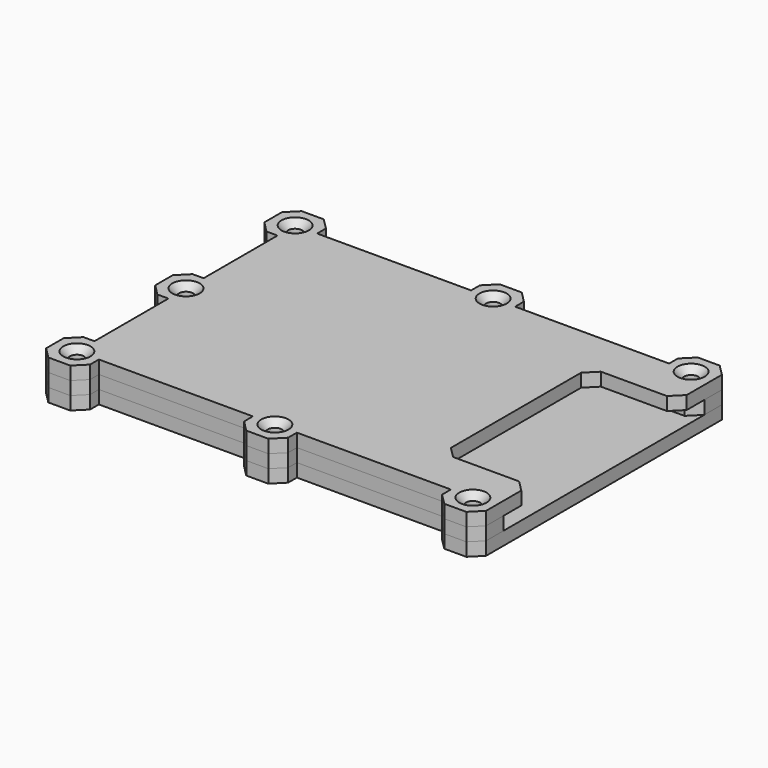
from build123d import *

# Parameters (mm, degrees)
F0_R      = 1.6
F1_DEPTH  = 3
F2_SIZE   = 2.5
F3_R      = 1.6
F4_DEPTH  = 3
F5_R      = 1
F6_DEPTH  = 3
F7_W      = 20
F7_H      = 42
F8_DEPTH  = 4
F9_SIZE   = 2.5
F9_2_SIZE = 2.5
F10_SIZE  = 1.5


with BuildPart() as f1:
    # F0 (on Top) → F1 (new body)
    with BuildSketch(Plane.XY):
        with BuildLine():
            Line((-37, -26), (45, -26))
            Line((45, -26), (45, 26))
            Line((45, 26), (-37, 26))
            ThreePointArc((-37, 26), (-42.6568542495, 23.6568542495), (-45, 18))
            Line((-45, 18), (-45, -18))
            ThreePointArc((-45, -18), (-42.6568542495, -23.6568542495), (-37, -26))
        make_face()
        with BuildLine():
            Line((45, -36), (45, -26))
            Line((45, -26), (-37, -26))
            ThreePointArc((-37, -26), (-42.6568542495, -23.6568542495), (-45, -18))
            Line((-45, -18), (-45, 18))
            ThreePointArc((-45, 18), (-42.6568542495, 23.6568542495), (-37, 26))
            Line((-37, 26), (45, 26))
            Line((45, 26), (45, 36))
            Line((45, 36), (35, 36))
            Line((35, 36), (35, 31))
            Line((35, 31), (0, 31))
            Line((0, 31), (0, 36))
            Line((0, 36), (-10, 36))
            Line((-10, 36), (-10, 31))
            Line((-10, 31), (-45, 31))
            Line((-45, 31), (-45, 36))
            Line((-45, 36), (-55, 36))
            Line((-55, 36), (-55, 26))
            Line((-55, 26), (-50, 26))
            Line((-50, 26), (-50, 5))
            Line((-50, 5), (-55, 5))
            Line((-55, 5), (-55, -5))
            Line((-55, -5), (-50, -5))
            Line((-50, -5), (-50, -26))
            Line((-50, -26), (-55, -26))
            Line((-55, -26), (-55, -36))
            Line((-55, -36), (-45, -36))
            Line((-45, -36), (-45, -31))
            Line((-45, -31), (-10, -31))
            Line((-10, -31), (-10, -36))
            Line((-10, -36), (0, -36))
            Line((0, -36), (0, -31))
            Line((0, -31), (35, -31))
            Line((35, -31), (35, -36))
            Line((35, -36), (45, -36))
        make_face()
        with Locations((-50, -31)):
            Circle(F0_R, mode=Mode.SUBTRACT)
        with Locations((-5, -31)):
            Circle(F0_R, mode=Mode.SUBTRACT)
        with Locations((40, -31)):
            Circle(F0_R, mode=Mode.SUBTRACT)
        with Locations((-50, 0)):
            Circle(F0_R, mode=Mode.SUBTRACT)
        with Locations((-50, 31)):
            Circle(F0_R, mode=Mode.SUBTRACT)
        with Locations((-5, 31)):
            Circle(F0_R, mode=Mode.SUBTRACT)
        with Locations((40, 31)):
            Circle(F0_R, mode=Mode.SUBTRACT)
    extrude(amount=-F1_DEPTH)

    # F2
    f2_edges = [f1.edges().sort_by_distance(p)[0] for p in [
        (45, -36, -1.5),
        (35, -36, -1.5),
        (0, -36, -1.5),
        (-10, -36, -1.5),
        (-45, -36, -1.5),
        (-55, -36, -1.5),
        (-55, -5, -1.5),
        (-55, 26, -1.5),
        (-55, -26, -1.5),
        (-55, 5, -1.5),
        (-55, 36, -1.5),
        (-45, 36, -1.5),
        (-10, 36, -1.5),
        (0, 36, -1.5),
        (35, 36, -1.5),
        (45, 36, -1.5),
    ]]
    chamfer(f2_edges, length=F2_SIZE)

    # F7 (on face) → F8 (cut)
    with BuildSketch(Plane.XY):
        with Locations((55, 0)):
            Rectangle(F7_W, F7_H)
        with Locations((35, 0)):
            Rectangle(F7_W, F7_H)
    extrude(amount=-F8_DEPTH, mode=Mode.SUBTRACT)

    # F9
    f9_edges = [f1.edges().sort_by_distance(p)[0] for p in [
        (25, 21, -1.5),
        (45, 21, -1.5),
        (45, -21, -1.5),
        (25, -21, -1.5),
    ]]
    chamfer(f9_edges, length=F9_SIZE)

    # F10
    f10_edges = [f1.edges().sort_by_distance(p)[0] for p in [
        (38.4, 31, 0),
        (-6.6, 31, 0),
        (-51.6, 31, 0),
        (-51.6, 0, 0),
        (-51.6, -31, 0),
        (-6.6, -31, 0),
        (38.4, -31, 0),
    ]]
    chamfer(f10_edges, length=F10_SIZE)


with BuildPart() as f4:
    # F3 (on face) → F4 (new body)
    with BuildSketch(Plane(origin=(0, 0, -3), x_dir=(1, 0, 0), z_dir=(0, 0, -1))):
        Polygon((37.5, -36), (42.5, -36), (45, -33.5), (45, -26), (-45, -26), (-45, 26), (45, 26), (45, 33.5), (42.5, 36), (37.5, 36), (35, 33.5), (35, 31), (0, 31), (0, 33.5), (-2.5, 36), (-7.5, 36), (-10, 33.5), (-10, 31), (-45, 31), (-45, 33.5), (-47.5, 36), (-52.5, 36), (-55, 33.5), (-55, 28.5), (-52.5, 26), (-50, 26), (-50, 5), (-52.5, 5), (-55, 2.5), (-55, -2.5), (-52.5, -5), (-50, -5), (-50, -26), (-52.5, -26), (-55, -28.5), (-55, -33.5), (-52.5, -36), (-47.5, -36), (-45, -33.5), (-45, -31), (-10, -31), (-10, -33.5), (-7.5, -36), (-2.5, -36), (0, -33.5), (0, -31), (35, -31), (35, -33.5), align=None)
        with Locations((-50, -31)):
            Circle(F3_R, mode=Mode.SUBTRACT)
        with Locations((-5, -31)):
            Circle(F3_R, mode=Mode.SUBTRACT)
        with Locations((40, -31)):
            Circle(F3_R, mode=Mode.SUBTRACT)
        with Locations((-50, 0)):
            Circle(F3_R, mode=Mode.SUBTRACT)
        with Locations((-50, 31)):
            Circle(F3_R, mode=Mode.SUBTRACT)
        with Locations((-5, 31)):
            Circle(F3_R, mode=Mode.SUBTRACT)
        with Locations((40, 31)):
            Circle(F3_R, mode=Mode.SUBTRACT)
    extrude(amount=F4_DEPTH)

    # F9#2
    f9_2_edges = [f4.edges().sort_by_distance(p)[0] for p in [
        (45, -26, -4.5),
        (45, 26, -4.5),
    ]]
    chamfer(f9_2_edges, length=F9_2_SIZE)


with BuildPart() as f6:
    # F5 (on face) → F6 (new body)
    with BuildSketch(Plane(origin=(0, 0, -6), x_dir=(1, 0, 0), z_dir=(0, 0, -1))):
        Polygon((45, -33.5), (45, -26), (45, 26), (45, 33.5), (42.5, 36), (37.5, 36), (35, 33.5), (35, 31), (0, 31), (0, 33.5), (-2.5, 36), (-7.5, 36), (-10, 33.5), (-10, 31), (-45, 31), (-45, 33.5), (-47.5, 36), (-52.5, 36), (-55, 33.5), (-55, 28.5), (-52.5, 26), (-50, 26), (-50, 5), (-52.5, 5), (-55, 2.5), (-55, -2.5), (-52.5, -5), (-50, -5), (-50, -26), (-52.5, -26), (-55, -28.5), (-55, -33.5), (-52.5, -36), (-47.5, -36), (-45, -33.5), (-45, -31), (-10, -31), (-10, -33.5), (-7.5, -36), (-2.5, -36), (0, -33.5), (0, -31), (35, -31), (35, -33.5), (37.5, -36), (42.5, -36), align=None)
        with Locations((-50, -31)):
            Circle(F5_R, mode=Mode.SUBTRACT)
        with Locations((-5, -31)):
            Circle(F5_R, mode=Mode.SUBTRACT)
        with Locations((40, -31)):
            Circle(F5_R, mode=Mode.SUBTRACT)
        with Locations((-50, 0)):
            Circle(F5_R, mode=Mode.SUBTRACT)
        with Locations((-50, 31)):
            Circle(F5_R, mode=Mode.SUBTRACT)
        with Locations((-5, 31)):
            Circle(F5_R, mode=Mode.SUBTRACT)
        with Locations((40, 31)):
            Circle(F5_R, mode=Mode.SUBTRACT)
    extrude(amount=F6_DEPTH)


solid = Compound([f1.part, f4.part, f6.part])
